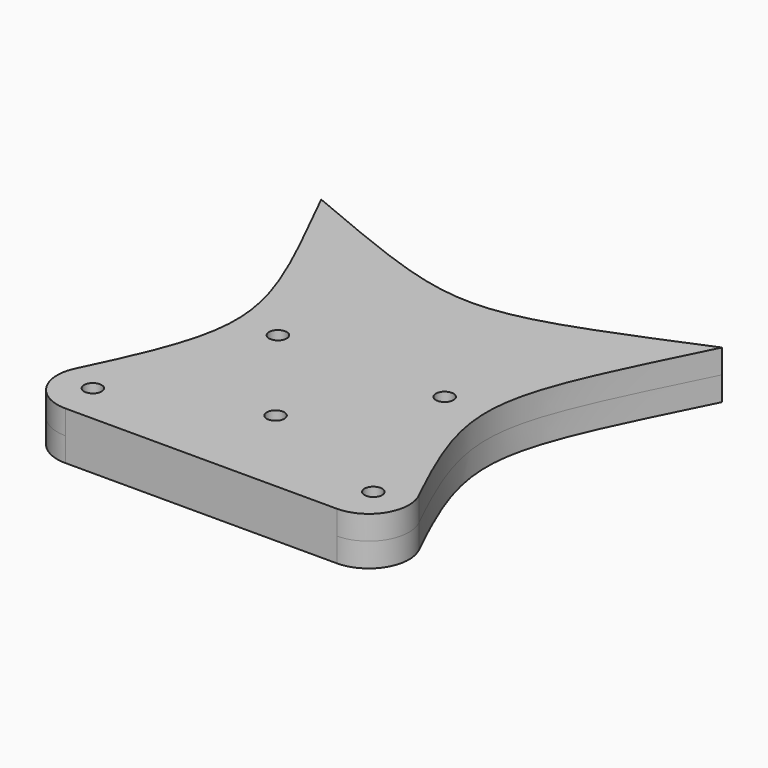
from build123d import *

# Parameters (mm, degrees)
F1_DEPTH = 3.048
F2_R     = 1.1176
F3_DEPTH = 6.35
F4_R     = 5.08


with BuildPart() as f1:
    # F0 (on Top) → F1 (new body, symmetric)
    with BuildSketch(Plane.XY):
        with BuildLine():
            add(Edge.make_bspline(
                [(-25.4, 25.4), (0, 14.75683), (0, 14.75683), (25.4, 25.4)],
                knots=[0, 0, 0, 0, 50.8, 50.8, 50.8, 50.8], degree=3))
            add(Edge.make_bspline(
                [(-25.4, 25.4), (-12.7, -0.009303), (-12.678587, 0), (-25.4, -25.4)],
                knots=[0, 0, 0, 0, 50.8, 50.8, 50.8, 50.8], degree=3))
            Line((-25.4, -25.4), (25.4, -25.4))
            add(Edge.make_bspline(
                [(25.4, 25.4), (12.7, 0), (12.7, 0), (25.4, -25.4)],
                knots=[0, 0, 0, 0, 50.8, 50.8, 50.8, 50.8], degree=3))
        make_face()
    extrude(amount=F1_DEPTH, both=True)

    # F2 (on face) → F3 (cut)
    with BuildSketch(Plane.XY.offset(3.048)):
        with Locations((-17.78, -20.32)):
            Circle(F2_R)
        with Locations((17.78, -20.32)):
            Circle(F2_R)
        with Locations((0, -13.591802)):
            Circle(F2_R)
        with Locations((-10.568528, 0)):
            Circle(F2_R)
        with Locations((10.568528, 0)):
            Circle(F2_R)
    extrude(amount=-F3_DEPTH, mode=Mode.SUBTRACT)

    # F4
    f4_edges = [f1.edges().sort_by_distance(p)[0] for p in [
        (-25.4, -25.4, -1.524),
        (25.4, -25.4, -1.524),
    ]]
    fillet(f4_edges, radius=F4_R)


solid = f1.part
